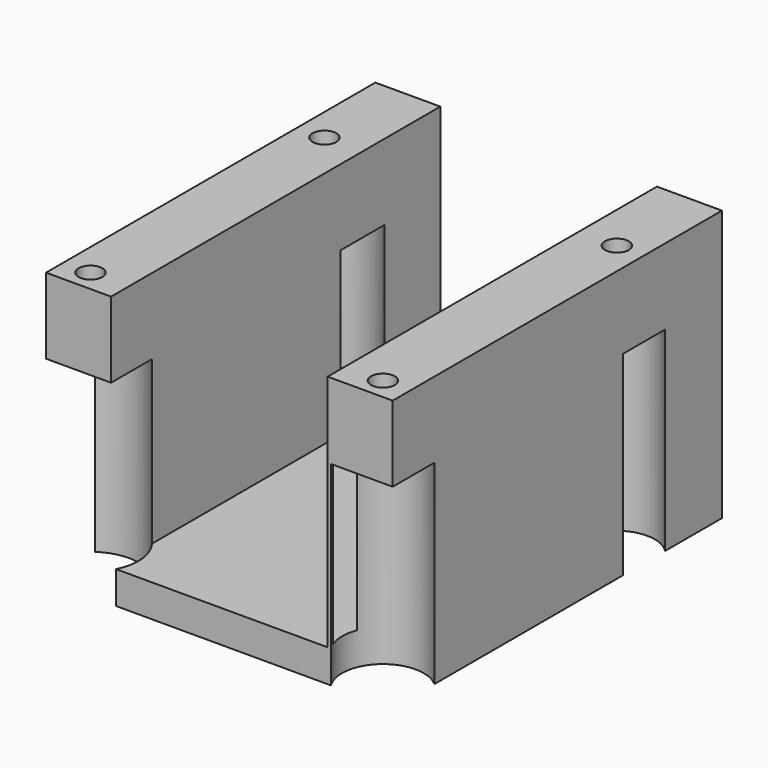
from build123d import *

# Parameters (mm, degrees)
F0_W     = 32
F0_H     = 38
F0_R     = 1.1
F0_R_2   = 4.5
F1_DEPTH = 25
F2_W     = 20
F2_H     = 22
F3_DEPTH = 38.001
F5_DEPTH = 18


with BuildPart() as f1:
    # F0 (on Top) → F1 (new body)
    with BuildSketch(Plane.XY):
        with Locations((0, -11)):
            Rectangle(F0_W, F0_H)
        with Locations((-13.5, -28)):
            Circle(F0_R, mode=Mode.SUBTRACT)
        with Locations((13.5, -28)):
            Circle(F0_R, mode=Mode.SUBTRACT)
        with Locations((-13.5, -1)):
            Circle(F0_R, mode=Mode.SUBTRACT)
        Circle(F0_R_2, mode=Mode.SUBTRACT)
        with Locations((13.5, -1)):
            Circle(F0_R, mode=Mode.SUBTRACT)
    extrude(amount=F1_DEPTH)

    # F2 (on face) → F3 (cut, through all)
    with BuildSketch(Plane(origin=(0, 8, 0), x_dir=(-1, 0, 0), z_dir=(0, 1, 0))):
        with Locations((0, 14)):
            Rectangle(F2_W, F2_H)
    extrude(amount=-F3_DEPTH, mode=Mode.SUBTRACT)

    # F4 (on face) → F5 (cut)
    with BuildSketch(Plane(origin=(0, 0, 0), x_dir=(1, 0, 0), z_dir=(0, 0, -1))):
        with BuildLine():
            Line((16, -1.44077), (16, 3.44077))
            ThreePointArc((16, 3.44077), (10.006097, 1), (16, -1.44077))
        make_face()
        with BuildLine():
            ThreePointArc((-16, -2.520859), (-9.181847, 1), (-16, 4.520859))
            Line((-16, 4.520859), (-16, -2.520859))
        make_face()
        with BuildLine():
            ThreePointArc((10.304378, 30), (11.064189, 25.122705), (16, 25.178298))
            Line((16, 25.178298), (16, 30))
            Line((16, 30), (10.304378, 30))
        make_face()
        with BuildLine():
            Line((-16, 30), (-16, 24.341244))
            ThreePointArc((-16, 24.341244), (-10.578677, 24.667979), (-9.545699, 30))
            Line((-9.545699, 30), (-16, 30))
        make_face()
    extrude(amount=-F5_DEPTH, mode=Mode.SUBTRACT)


solid = f1.part
